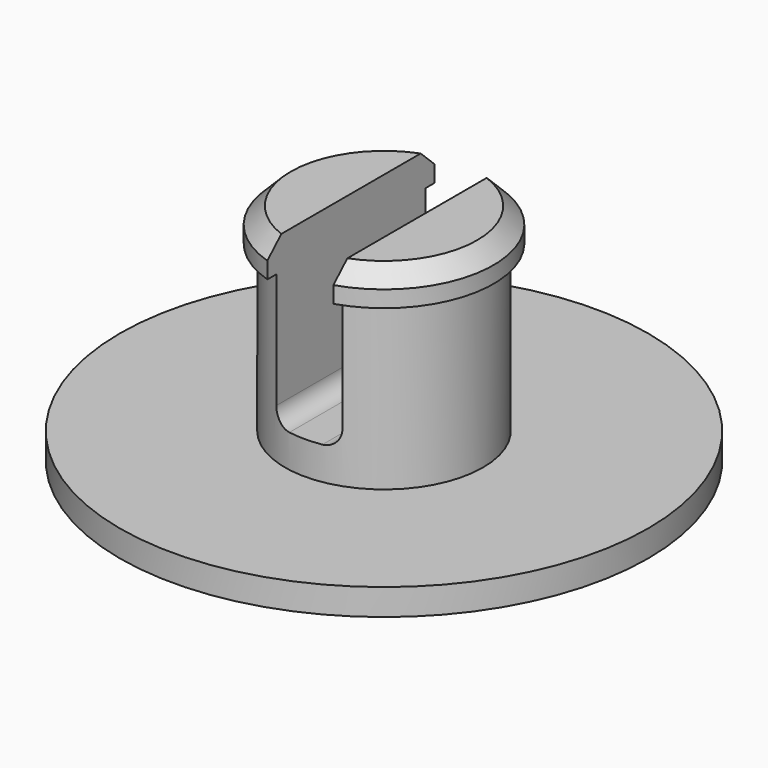
from build123d import *

# Parameters (mm, degrees)
F2_SIZE       = 0.79375
F3_W          = 3.175002
F3_H          = 7.9375
F4_DEPTH      = 12.701
F4_DEPTH_BACK = 12.701
F5_R          = 0.79375


with BuildPart() as f1:
    # F0 (on Front) → F1 (revolve)
    with BuildSketch(Plane.XZ):
        Polygon((12.7, 0), (4.7625, 0), (4.7625, 7.9375), (5.2705, 7.9375), (5.2705, 9.525), (0, 9.525), (0, 7.9375), (0, 0), (0, -1.27), (12.7, -1.27), align=None)
    revolve(axis=Axis((0, 0, 3.96875), (0, 0, 1)))

    # F2
    f2_edges = [f1.edges().sort_by_distance(p)[0] for p in [
        (-5.2705, 0, 9.525),
    ]]
    chamfer(f2_edges, length=F2_SIZE)

    # F3 (on Front) → F4 (cut, two sides)
    with BuildSketch(Plane.XZ) as f4_sk:
        with Locations((0, 5.55625)):
            Rectangle(F3_W, F3_H)
    extrude(amount=F4_DEPTH, mode=Mode.SUBTRACT)
    extrude(f4_sk.sketch, amount=-F4_DEPTH_BACK, mode=Mode.SUBTRACT)

    # F5
    f5_edges = [f1.edges().sort_by_distance(p)[0] for p in [
        (1.587501, 0, 1.5875),
        (-1.587501, 0, 1.5875),
    ]]
    fillet(f5_edges, radius=F5_R)


solid = f1.part
